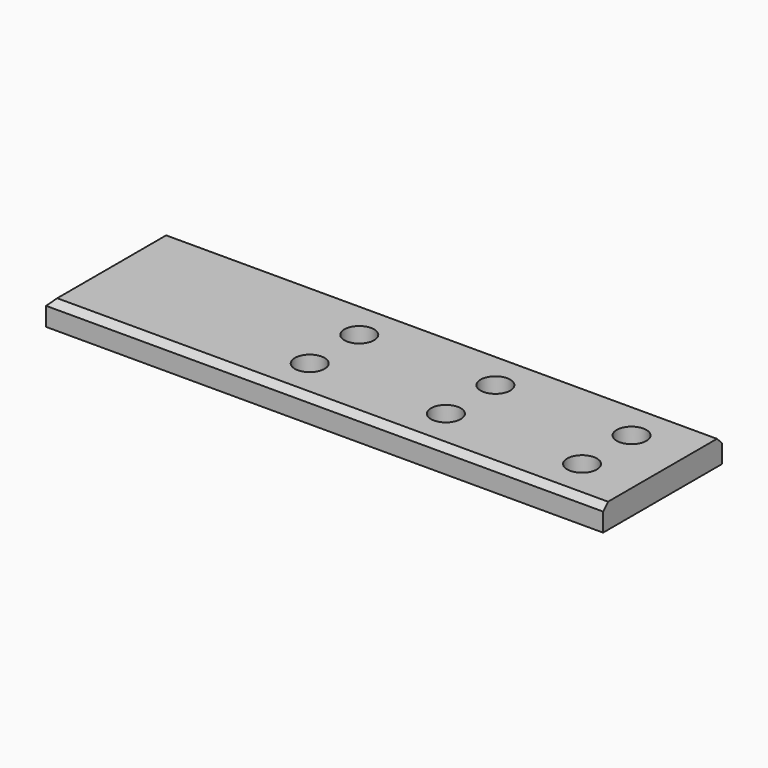
from build123d import *

# Parameters (mm, degrees)
F0_W     = 450
F0_H     = 120
F1_DEPTH = 20
F3_D     = 24
F4_SIZE  = 5


with BuildPart() as f1:
    # F0 (on Top) → F1 (new body)
    with BuildSketch(Plane.XY):
        with Locations((225, 60)):
            Rectangle(F0_W, F0_H)
    extrude(amount=F1_DEPTH)

    # F3 (through all)
    with Locations(Plane.XY.offset(20)):
        with Locations((185, 85), (185, 35), (295, 85), (295, 35), (405, 85), (405, 35)):
            Hole(F3_D / 2)

    # F4
    f4_edges = [f1.edges().sort_by_distance(p)[0] for p in [
        (225, 120, 20),
        (225, 0, 20),
        (0, 60, 20),
    ]]
    chamfer(f4_edges, length=F4_SIZE)


solid = f1.part
